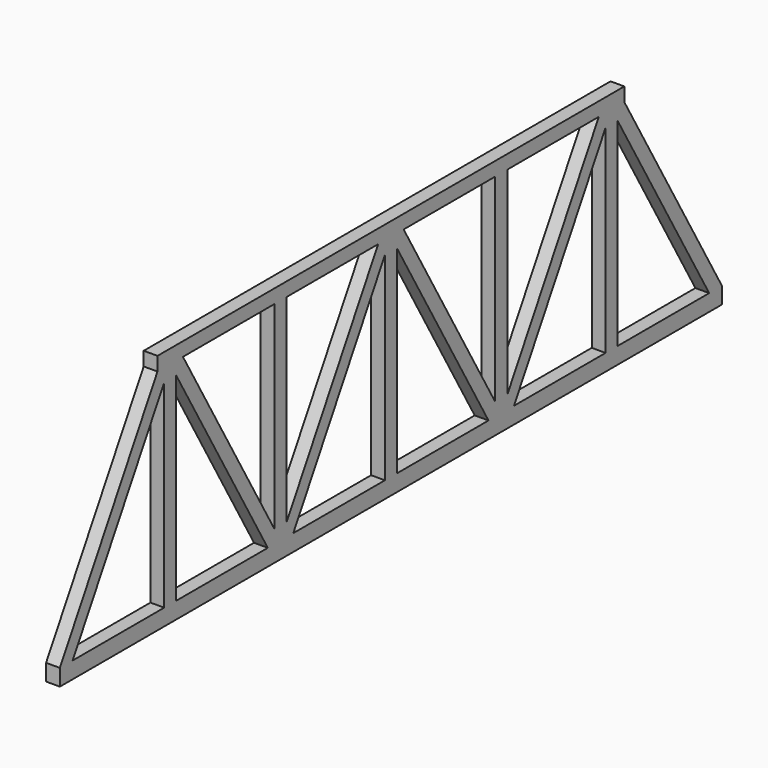
from build123d import *

# Parameters (mm, degrees)
F1_DEPTH = 5


with BuildPart() as f1:
    # F0 (on Right) → F1 (new body)
    with BuildSketch(Plane.YZ):
        Polygon((104.411765, 40.84024), (110.185267, 40.84024), (110.185267, 45.84024), (-101.361738, 45.84024), (-101.361738, 40.84024), (-95.588235, 40.84024), (-89.814733, 40.84024), (-48.314733, 40.84024), (-42.861738, 40.84024), (-1.361738, 40.84024), (4.411765, 40.84024), (10.185267, 40.84024), (51.685267, 40.84024), (57.138262, 40.84024), (98.638262, 40.84024), align=None)
        Polygon((-89.814733, 40.84024), (-95.588235, 40.84024), (-92.861738, 36.117808), (-51.361738, -35.7623), (-45.588235, -35.7623), (-48.314733, -31.039869), align=None)
        Polygon((-98.314733, 36.117808), (-98.314733, -35.7623), (-92.861738, -35.7623), (-92.861738, 36.117808), (-95.588235, 40.84024), align=None)
        Polygon((-48.314733, 40.84024), (-48.314733, -31.039869), (-45.588235, -35.7623), (-42.861738, -31.039869), (-42.861738, 40.84024), align=None)
        Polygon((-42.861738, -31.039869), (-45.588235, -35.7623), (-39.814733, -35.7623), (1.685267, 36.117808), (4.411765, 40.84024), (-1.361738, 40.84024), align=None)
        Polygon((-101.361738, 40.84024), (-145.588235, -35.7623), (-139.814733, -35.7623), (-98.314733, 36.117808), (-95.588235, 40.84024), align=None)
        Polygon((-145.588235, -41.7623), (154.411765, -41.7623), (154.411765, -35.7623), (148.638262, -35.7623), (107.138262, -35.7623), (101.685267, -35.7623), (60.185267, -35.7623), (54.411765, -35.7623), (48.638262, -35.7623), (7.138262, -35.7623), (1.685267, -35.7623), (-39.814733, -35.7623), (-45.588235, -35.7623), (-51.361738, -35.7623), (-92.861738, -35.7623), (-98.314733, -35.7623), (-139.814733, -35.7623), (-145.588235, -35.7623), align=None)
        Polygon((1.685267, -35.7623), (7.138262, -35.7623), (7.138262, 36.117808), (4.411765, 40.84024), (1.685267, 36.117808), align=None)
        Polygon((48.638262, -35.7623), (54.411765, -35.7623), (51.685267, -31.039869), (10.185267, 40.84024), (4.411765, 40.84024), (7.138262, 36.117808), align=None)
        Polygon((54.411765, -35.7623), (57.138262, -31.039869), (57.138262, 40.84024), (51.685267, 40.84024), (51.685267, -31.039869), align=None)
        Polygon((101.685267, 36.117808), (104.411765, 40.84024), (98.638262, 40.84024), (57.138262, -31.039869), (54.411765, -35.7623), (60.185267, -35.7623), align=None)
        Polygon((101.685267, -35.7623), (107.138262, -35.7623), (107.138262, 36.117808), (104.411765, 40.84024), (101.685267, 36.117808), align=None)
        Polygon((148.638262, -35.7623), (154.411765, -35.7623), (110.185267, 40.84024), (104.411765, 40.84024), (107.138262, 36.117808), align=None)
    extrude(amount=F1_DEPTH)


solid = f1.part
